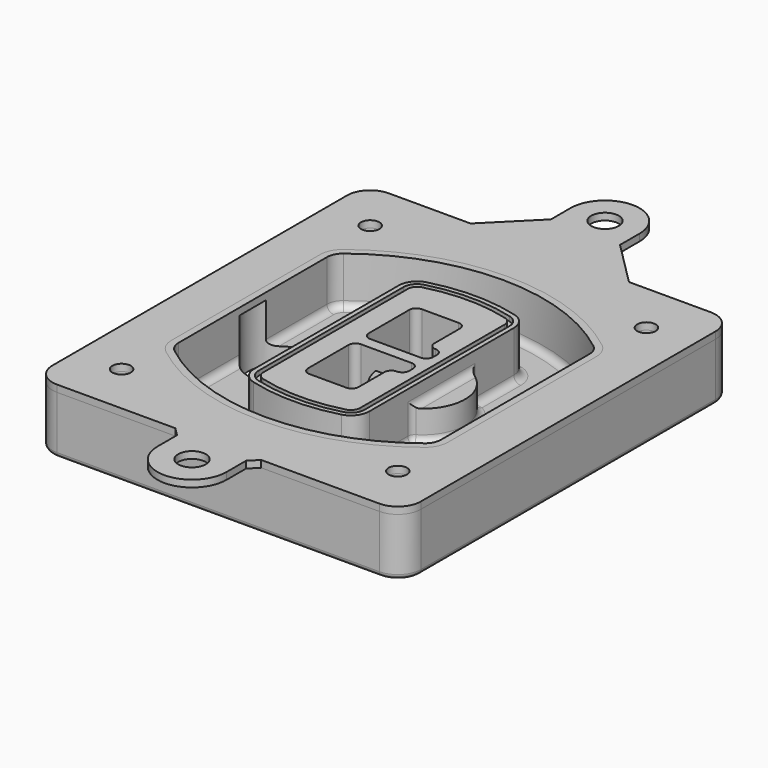
from build123d import *

# Parameters (mm, degrees)
F0_R      = 4
F1_DEPTH  = 25
F2_DEPTH  = 3
F3_DEPTH  = 18
F5_DEPTH  = 21
F6_DEPTH  = 2
F8_DEPTH  = 20
F9_DEPTH  = 16
F10_DEPTH = 25
F7_R      = 6
F7_R_2    = 4
F11_DEPTH = 6
F13_DEPTH = 9
F14_R     = 3
F15_R     = 2
F16_R     = 4
F16_R_2   = 6
F17_DEPTH = 3


with BuildPart() as f1:
    # F0 (on Top) → F1 (new body)
    with BuildSketch(Plane.XY):
        with BuildLine():
            ThreePointArc((-80, -80), (-77.0710678119, -87.0710678119), (-70, -90))
            Line((-70, -90), (70, -90))
            ThreePointArc((70, -90), (77.0710678119, -87.0710678119), (80, -80))
            Line((80, -80), (80, 80))
            ThreePointArc((80, 80), (77.0710678119, 87.0710678119), (70, 90))
            Line((70, 90), (-70, 90))
            ThreePointArc((-70, 90), (-77.0710678119, 87.0710678119), (-80, 80))
            Line((-80, 80), (-80, -80))
        make_face()
        with Locations((-60, -67.5)):
            Circle(F0_R, mode=Mode.SUBTRACT)
        with Locations((60, -67.5)):
            Circle(F0_R, mode=Mode.SUBTRACT)
        with Locations((-60, 67.5)):
            Circle(F0_R, mode=Mode.SUBTRACT)
        with BuildLine():
            ThreePointArc((-64, 40.2934422872), (-62.5820384798, 46.4328484224), (-58.6153846154, 51.3286200352))
            ThreePointArc((-58.6153846154, 51.3286200352), (0, 71.5), (58.6153846154, 51.3286200352))
            ThreePointArc((58.6153846154, 51.3286200352), (62.5820384798, 46.4328484224), (64, 40.2934422872))
            Line((64, 40.2934422872), (64, -40.2934422872))
            ThreePointArc((64, -40.2934422872), (62.5820384798, -46.4328484224), (58.6153846154, -51.3286200352))
            ThreePointArc((58.6153846154, -51.3286200352), (0, -71.5), (-58.6153846154, -51.3286200352))
            ThreePointArc((-58.6153846154, -51.3286200352), (-62.5820384798, -46.4328484224), (-64, -40.2934422872))
            Line((-64, -40.2934422872), (-64, 40.2934422872))
        make_face(mode=Mode.SUBTRACT)
        with Locations((60, 67.5)):
            Circle(F0_R, mode=Mode.SUBTRACT)
        with BuildLine():
            ThreePointArc((58.6153846154, 51.3286200352), (0, 71.5), (-58.6153846154, 51.3286200352))
            ThreePointArc((-58.6153846154, 51.3286200352), (-62.5820384798, 46.4328484224), (-64, 40.2934422872))
            Line((-64, 40.2934422872), (-64, -40.2934422872))
            ThreePointArc((-64, -40.2934422872), (-62.5820384798, -46.4328484224), (-58.6153846154, -51.3286200352))
            ThreePointArc((-58.6153846154, -51.3286200352), (0, -71.5), (58.6153846154, -51.3286200352))
            ThreePointArc((58.6153846154, -51.3286200352), (62.5820384798, -46.4328484224), (64, -40.2934422872))
            Line((64, -40.2934422872), (64, 40.2934422872))
            ThreePointArc((64, 40.2934422872), (62.5820384798, 46.4328484224), (58.6153846154, 51.3286200352))
        make_face()
        with BuildLine():
            Line((-60, -40.2934422872), (-60, 40.2934422872))
            ThreePointArc((-60, 40.2934422872), (-58.9871703427, 44.6787323838), (-56.1538461538, 48.1757121072))
            ThreePointArc((-56.1538461538, 48.1757121072), (0, 67.5), (56.1538461538, 48.1757121072))
            ThreePointArc((56.1538461538, 48.1757121072), (58.9871703427, 44.6787323838), (60, 40.2934422872))
            Line((60, 40.2934422872), (60, -40.2934422872))
            ThreePointArc((60, -40.2934422872), (58.9871703427, -44.6787323838), (56.1538461538, -48.1757121072))
            ThreePointArc((56.1538461538, -48.1757121072), (0, -67.5), (-56.1538461538, -48.1757121072))
            ThreePointArc((-56.1538461538, -48.1757121072), (-58.9871703427, -44.6787323838), (-60, -40.2934422872))
        make_face(mode=Mode.SUBTRACT)
        with BuildLine():
            ThreePointArc((-56.1538461538, 48.1757121072), (-58.9871703427, 44.6787323838), (-60, 40.2934422872))
            Line((-60, 40.2934422872), (-60, -40.2934422872))
            ThreePointArc((-60, -40.2934422872), (-58.9871703427, -44.6787323838), (-56.1538461538, -48.1757121072))
            ThreePointArc((-56.1538461538, -48.1757121072), (0, -67.5), (56.1538461538, -48.1757121072))
            ThreePointArc((56.1538461538, -48.1757121072), (58.9871703427, -44.6787323838), (60, -40.2934422872))
            Line((60, -40.2934422872), (60, 40.2934422872))
            ThreePointArc((60, 40.2934422872), (58.9871703427, 44.6787323838), (56.1538461538, 48.1757121072))
            ThreePointArc((56.1538461538, 48.1757121072), (0, 67.5), (-56.1538461538, 48.1757121072))
        make_face()
        with BuildLine():
            ThreePointArc((54.3076923077, 45.8110311612), (56.2910192399, 43.3631453548), (57, 40.2934422872))
            Line((57, 40.2934422872), (57, -40.2934422872))
            ThreePointArc((57, -40.2934422872), (56.2910192399, -43.3631453548), (54.3076923077, -45.8110311612))
            ThreePointArc((54.3076923077, -45.8110311612), (0, -64.5), (-54.3076923077, -45.8110311612))
            ThreePointArc((-54.3076923077, -45.8110311612), (-56.2910192399, -43.3631453548), (-57, -40.2934422872))
            Line((-57, -40.2934422872), (-57, 40.2934422872))
            ThreePointArc((-57, 40.2934422872), (-56.2910192399, 43.3631453548), (-54.3076923077, 45.8110311612))
            ThreePointArc((-54.3076923077, 45.8110311612), (0, 64.5), (54.3076923077, 45.8110311612))
        make_face(mode=Mode.SUBTRACT)
        with BuildLine():
            Line((57, -40.2934422872), (57, 40.2934422872))
            ThreePointArc((57, 40.2934422872), (56.2910192399, 43.3631453548), (54.3076923077, 45.8110311612))
            ThreePointArc((54.3076923077, 45.8110311612), (0, 64.5), (-54.3076923077, 45.8110311612))
            ThreePointArc((-54.3076923077, 45.8110311612), (-56.2910192399, 43.3631453548), (-57, 40.2934422872))
            Line((-57, 40.2934422872), (-57, -40.2934422872))
            ThreePointArc((-57, -40.2934422872), (-56.2910192399, -43.3631453548), (-54.3076923077, -45.8110311612))
            ThreePointArc((-54.3076923077, -45.8110311612), (0, -64.5), (54.3076923077, -45.8110311612))
            ThreePointArc((54.3076923077, -45.8110311612), (56.2910192399, -43.3631453548), (57, -40.2934422872))
        make_face()
    extrude(amount=-F1_DEPTH)

    # F0 (on Top) → F2 (join)
    with BuildSketch(Plane.XY):
        with BuildLine():
            ThreePointArc((-56.1538461538, 48.1757121072), (-58.9871703427, 44.6787323838), (-60, 40.2934422872))
            Line((-60, 40.2934422872), (-60, -40.2934422872))
            ThreePointArc((-60, -40.2934422872), (-58.9871703427, -44.6787323838), (-56.1538461538, -48.1757121072))
            ThreePointArc((-56.1538461538, -48.1757121072), (0, -67.5), (56.1538461538, -48.1757121072))
            ThreePointArc((56.1538461538, -48.1757121072), (58.9871703427, -44.6787323838), (60, -40.2934422872))
            Line((60, -40.2934422872), (60, 40.2934422872))
            ThreePointArc((60, 40.2934422872), (58.9871703427, 44.6787323838), (56.1538461538, 48.1757121072))
            ThreePointArc((56.1538461538, 48.1757121072), (0, 67.5), (-56.1538461538, 48.1757121072))
        make_face()
        with BuildLine():
            ThreePointArc((54.3076923077, 45.8110311612), (56.2910192399, 43.3631453548), (57, 40.2934422872))
            Line((57, 40.2934422872), (57, -40.2934422872))
            ThreePointArc((57, -40.2934422872), (56.2910192399, -43.3631453548), (54.3076923077, -45.8110311612))
            ThreePointArc((54.3076923077, -45.8110311612), (0, -64.5), (-54.3076923077, -45.8110311612))
            ThreePointArc((-54.3076923077, -45.8110311612), (-56.2910192399, -43.3631453548), (-57, -40.2934422872))
            Line((-57, -40.2934422872), (-57, 40.2934422872))
            ThreePointArc((-57, 40.2934422872), (-56.2910192399, 43.3631453548), (-54.3076923077, 45.8110311612))
            ThreePointArc((-54.3076923077, 45.8110311612), (0, 64.5), (54.3076923077, 45.8110311612))
        make_face(mode=Mode.SUBTRACT)
    extrude(amount=F2_DEPTH)

    # F0 (on Top) → F3 (cut)
    with BuildSketch(Plane.XY):
        with BuildLine():
            Line((57, -40.2934422872), (57, 40.2934422872))
            ThreePointArc((57, 40.2934422872), (56.2910192399, 43.3631453548), (54.3076923077, 45.8110311612))
            ThreePointArc((54.3076923077, 45.8110311612), (0, 64.5), (-54.3076923077, 45.8110311612))
            ThreePointArc((-54.3076923077, 45.8110311612), (-56.2910192399, 43.3631453548), (-57, 40.2934422872))
            Line((-57, 40.2934422872), (-57, -40.2934422872))
            ThreePointArc((-57, -40.2934422872), (-56.2910192399, -43.3631453548), (-54.3076923077, -45.8110311612))
            ThreePointArc((-54.3076923077, -45.8110311612), (0, -64.5), (54.3076923077, -45.8110311612))
            ThreePointArc((54.3076923077, -45.8110311612), (56.2910192399, -43.3631453548), (57, -40.2934422872))
        make_face()
    extrude(amount=-F3_DEPTH, mode=Mode.SUBTRACT)

    # F4 (on face) → F5 (join, through all)
    with BuildSketch(Plane.XY.offset(3)):
        with BuildLine():
            ThreePointArc((-25, -39.2465276821), (-23.3511545998, -44.1109737193), (-19.0842911877, -46.9702398883))
            ThreePointArc((-19.0842911877, -46.9702398883), (0, -49.5), (19.0842911877, -46.9702398883))
            ThreePointArc((19.0842911877, -46.9702398883), (23.3511545998, -44.1109737193), (25, -39.2465276821))
            Line((25, -39.2465276821), (25, 39.2465276821))
            ThreePointArc((25, 39.2465276821), (23.3511545998, 44.1109737193), (19.0842911877, 46.9702398883))
            ThreePointArc((19.0842911877, 46.9702398883), (0, 49.5), (-19.0842911877, 46.9702398883))
            ThreePointArc((-19.0842911877, 46.9702398883), (-23.3511545998, 44.1109737193), (-25, 39.2465276821))
            Line((-25, 39.2465276821), (-25, -39.2465276821))
        make_face()
        with BuildLine():
            ThreePointArc((18.5632183908, 45.0393118368), (21.7633659499, 42.89486221), (23, 39.2465276821))
            Line((23, 39.2465276821), (23, -39.2465276821))
            ThreePointArc((23, -39.2465276821), (21.7633659499, -42.89486221), (18.5632183908, -45.0393118368))
            ThreePointArc((18.5632183908, -45.0393118368), (0, -47.5), (-18.5632183908, -45.0393118368))
            ThreePointArc((-18.5632183908, -45.0393118368), (-21.7633659499, -42.89486221), (-23, -39.2465276821))
            Line((-23, -39.2465276821), (-23, 39.2465276821))
            ThreePointArc((-23, 39.2465276821), (-21.7633659499, 42.89486221), (-18.5632183908, 45.0393118368))
            ThreePointArc((-18.5632183908, 45.0393118368), (0, 47.5), (18.5632183908, 45.0393118368))
        make_face(mode=Mode.SUBTRACT)
        with BuildLine():
            Line((23, -39.2465276821), (23, 39.2465276821))
            ThreePointArc((23, 39.2465276821), (21.7633659499, 42.89486221), (18.5632183908, 45.0393118368))
            ThreePointArc((18.5632183908, 45.0393118368), (0, 47.5), (-18.5632183908, 45.0393118368))
            ThreePointArc((-18.5632183908, 45.0393118368), (-21.7633659499, 42.89486221), (-23, 39.2465276821))
            Line((-23, 39.2465276821), (-23, -39.2465276821))
            ThreePointArc((-23, -39.2465276821), (-21.7633659499, -42.89486221), (-18.5632183908, -45.0393118368))
            ThreePointArc((-18.5632183908, -45.0393118368), (0, -47.5), (18.5632183908, -45.0393118368))
            ThreePointArc((18.5632183908, -45.0393118368), (21.7633659499, -42.89486221), (23, -39.2465276821))
        make_face()
        with BuildLine():
            ThreePointArc((18.0421455939, 43.1083837852), (20.1755772999, 41.6787507007), (21, 39.2465276821))
            Line((21, 39.2465276821), (21, -39.2465276821))
            ThreePointArc((21, -39.2465276821), (20.1755772999, -41.6787507007), (18.0421455939, -43.1083837852))
            ThreePointArc((18.0421455939, -43.1083837852), (0, -45.5), (-18.0421455939, -43.1083837852))
            ThreePointArc((-18.0421455939, -43.1083837852), (-20.1755772999, -41.6787507007), (-21, -39.2465276821))
            Line((-21, -39.2465276821), (-21, 39.2465276821))
            ThreePointArc((-21, 39.2465276821), (-20.1755772999, 41.6787507007), (-18.0421455939, 43.1083837852))
            ThreePointArc((-18.0421455939, 43.1083837852), (0, 45.5), (18.0421455939, 43.1083837852))
        make_face(mode=Mode.SUBTRACT)
        with BuildLine():
            Line((21, -39.2465276821), (21, 39.2465276821))
            ThreePointArc((21, 39.2465276821), (20.1755772999, 41.6787507007), (18.0421455939, 43.1083837852))
            ThreePointArc((18.0421455939, 43.1083837852), (0, 45.5), (-18.0421455939, 43.1083837852))
            ThreePointArc((-18.0421455939, 43.1083837852), (-20.1755772999, 41.6787507007), (-21, 39.2465276821))
            Line((-21, 39.2465276821), (-21, -39.2465276821))
            ThreePointArc((-21, -39.2465276821), (-20.1755772999, -41.6787507007), (-18.0421455939, -43.1083837852))
            ThreePointArc((-18.0421455939, -43.1083837852), (0, -45.5), (18.0421455939, -43.1083837852))
            ThreePointArc((18.0421455939, -43.1083837852), (20.1755772999, -41.6787507007), (21, -39.2465276821))
        make_face()
        with BuildLine():
            Line((-8, -2.5), (14, -2.5))
            ThreePointArc((14, -2.5), (16.1213203436, -3.3786796564), (17, -5.5))
            Line((17, -5.5), (17, -7.5))
            ThreePointArc((17, -7.5), (16.1213203436, -9.6213203436), (14, -10.5))
            ThreePointArc((14, -10.5), (11.8786796564, -11.3786796564), (11, -13.5))
            Line((11, -13.5), (11, -27.5))
            ThreePointArc((11, -27.5), (10.1213203436, -29.6213203436), (8, -30.5))
            Line((8, -30.5), (-8, -30.5))
            ThreePointArc((-8, -30.5), (-10.1213203436, -29.6213203436), (-11, -27.5))
            Line((-11, -27.5), (-11, -5.5))
            ThreePointArc((-11, -5.5), (-10.1213203436, -3.3786796564), (-8, -2.5))
        make_face(mode=Mode.SUBTRACT)
        with BuildLine():
            ThreePointArc((-8, 2.5), (-10.1213203436, 3.3786796564), (-11, 5.5))
            Line((-11, 5.5), (-11, 27.5))
            ThreePointArc((-11, 27.5), (-10.1213203436, 29.6213203436), (-8, 30.5))
            Line((-8, 30.5), (8, 30.5))
            ThreePointArc((8, 30.5), (10.1213203436, 29.6213203436), (11, 27.5))
            Line((11, 27.5), (11, 13.5))
            ThreePointArc((11, 13.5), (11.8786796564, 11.3786796564), (14, 10.5))
            ThreePointArc((14, 10.5), (16.1213203436, 9.6213203436), (17, 7.5))
            Line((17, 7.5), (17, 5.5))
            ThreePointArc((17, 5.5), (16.1213203436, 3.3786796564), (14, 2.5))
            Line((14, 2.5), (-8, 2.5))
        make_face(mode=Mode.SUBTRACT)
    extrude(amount=-F5_DEPTH)

    # F4 (on face) → F6 (cut)
    with BuildSketch(Plane.XY.offset(3)):
        with BuildLine():
            Line((23, -39.2465276821), (23, 39.2465276821))
            ThreePointArc((23, 39.2465276821), (21.7633659499, 42.89486221), (18.5632183908, 45.0393118368))
            ThreePointArc((18.5632183908, 45.0393118368), (0, 47.5), (-18.5632183908, 45.0393118368))
            ThreePointArc((-18.5632183908, 45.0393118368), (-21.7633659499, 42.89486221), (-23, 39.2465276821))
            Line((-23, 39.2465276821), (-23, -39.2465276821))
            ThreePointArc((-23, -39.2465276821), (-21.7633659499, -42.89486221), (-18.5632183908, -45.0393118368))
            ThreePointArc((-18.5632183908, -45.0393118368), (0, -47.5), (18.5632183908, -45.0393118368))
            ThreePointArc((18.5632183908, -45.0393118368), (21.7633659499, -42.89486221), (23, -39.2465276821))
        make_face()
        with BuildLine():
            ThreePointArc((18.0421455939, 43.1083837852), (20.1755772999, 41.6787507007), (21, 39.2465276821))
            Line((21, 39.2465276821), (21, -39.2465276821))
            ThreePointArc((21, -39.2465276821), (20.1755772999, -41.6787507007), (18.0421455939, -43.1083837852))
            ThreePointArc((18.0421455939, -43.1083837852), (0, -45.5), (-18.0421455939, -43.1083837852))
            ThreePointArc((-18.0421455939, -43.1083837852), (-20.1755772999, -41.6787507007), (-21, -39.2465276821))
            Line((-21, -39.2465276821), (-21, 39.2465276821))
            ThreePointArc((-21, 39.2465276821), (-20.1755772999, 41.6787507007), (-18.0421455939, 43.1083837852))
            ThreePointArc((-18.0421455939, 43.1083837852), (0, 45.5), (18.0421455939, 43.1083837852))
        make_face(mode=Mode.SUBTRACT)
    extrude(amount=-F6_DEPTH, mode=Mode.SUBTRACT)

    # F7 (on face) → F8 (join)
    with BuildSketch(Plane(origin=(0, 0, -25), x_dir=(1, 0, 0), z_dir=(0, 0, -1))):
        with BuildLine():
            ThreePointArc((3.28842436, 0), (16.7567035675, 13.4682792075), (30.224982775, 0))
            Line((30.224982775, 0), (35.224982775, 0))
            ThreePointArc((35.224982775, 0), (16.7567035675, 18.4682792075), (-1.71157564, 0))
            Line((-1.71157564, 0), (3.28842436, 0))
        make_face()
        with BuildLine():
            Line((3.28842436, 0), (30.224982775, 0))
            ThreePointArc((30.224982775, 0), (16.7567035675, 13.4682792075), (3.28842436, 0))
        make_face()
        with BuildLine():
            ThreePointArc((3.28842436, 0), (16.7567035675, -13.4682792075), (30.224982775, 0))
            Line((30.224982775, 0), (3.28842436, 0))
        make_face()
        with BuildLine():
            Line((35.224982775, 0), (30.224982775, 0))
            ThreePointArc((30.224982775, 0), (16.7567035675, -13.4682792075), (3.28842436, 0))
            Line((3.28842436, 0), (-1.71157564, 0))
            ThreePointArc((-1.71157564, 0), (16.7567035675, -18.4682792075), (35.224982775, 0))
        make_face()
    extrude(amount=-F8_DEPTH)

    # F7 (on face) → F9 (cut)
    with BuildSketch(Plane(origin=(0, 0, -25), x_dir=(1, 0, 0), z_dir=(0, 0, -1))):
        with BuildLine():
            Line((3.28842436, 0), (30.224982775, 0))
            ThreePointArc((30.224982775, 0), (16.7567035675, 13.4682792075), (3.28842436, 0))
        make_face()
        with BuildLine():
            ThreePointArc((3.28842436, 0), (16.7567035675, -13.4682792075), (30.224982775, 0))
            Line((30.224982775, 0), (3.28842436, 0))
        make_face()
    extrude(amount=-F9_DEPTH, mode=Mode.SUBTRACT)

    # F7 (on face) → F10 (cut)
    with BuildSketch(Plane(origin=(0, 0, -25), x_dir=(1, 0, 0), z_dir=(0, 0, -1))):
        with BuildLine():
            Line((-59.0318229325, 0), (-32.0952645175, 0))
            ThreePointArc((-32.0952645175, 0), (-45.563543725, 13.4682792075), (-59.0318229325, 0))
        make_face()
        with BuildLine():
            ThreePointArc((-59.0318229325, 0), (-45.563543725, -13.4682792075), (-32.0952645175, 0))
            Line((-32.0952645175, 0), (-59.0318229325, 0))
        make_face()
    extrude(amount=-F10_DEPTH, mode=Mode.SUBTRACT)

    # F7 (on face) → F11 (cut)
    with BuildSketch(Plane(origin=(0, 0, -25), x_dir=(1, 0, 0), z_dir=(0, 0, -1))):
        with Locations((60, -67.5)):
            Circle(F7_R)
        with Locations((60, -67.5)):
            Circle(F7_R_2, mode=Mode.SUBTRACT)
        with Locations((60, -67.5)):
            Circle(F7_R)
        with Locations((60, -67.5)):
            Circle(F7_R_2, mode=Mode.SUBTRACT)
        with Locations((-60, -67.5)):
            Circle(F7_R)
        with Locations((-60, -67.5)):
            Circle(F7_R_2, mode=Mode.SUBTRACT)
        with Locations((-60, -67.5)):
            Circle(F7_R)
        with Locations((-60, -67.5)):
            Circle(F7_R_2, mode=Mode.SUBTRACT)
        with Locations((-60, 67.5)):
            Circle(F7_R)
        with Locations((-60, 67.5)):
            Circle(F7_R_2, mode=Mode.SUBTRACT)
        with Locations((-60, 67.5)):
            Circle(F7_R)
        with Locations((-60, 67.5)):
            Circle(F7_R_2, mode=Mode.SUBTRACT)
        with Locations((60, 67.5)):
            Circle(F7_R)
        with Locations((60, 67.5)):
            Circle(F7_R_2, mode=Mode.SUBTRACT)
        with Locations((60, 67.5)):
            Circle(F7_R)
        with Locations((60, 67.5)):
            Circle(F7_R_2, mode=Mode.SUBTRACT)
    extrude(amount=-F11_DEPTH, mode=Mode.SUBTRACT)

    # F12 (on face) → F13 (cut, through all)
    with BuildSketch(Plane(origin=(0, 0, -9), x_dir=(1, 0, 0), z_dir=(0, 0, -1))):
        with BuildLine():
            Line((11, 13.5), (11, 17.5481537753))
            ThreePointArc((11, 17.5481537753), (2.5696536419, 11.8239143813), (-1.5415842455, 2.5))
            Line((-1.5415842455, 2.5), (3.5224848595, 2.5))
            ThreePointArc((3.5224848595, 2.5), (6.1857188154, 8.3455872281), (11.2536447004, 12.2927168648))
            ThreePointArc((11.2536447004, 12.2927168648), (11.0640958889, 12.8831798879), (11, 13.5))
        make_face()
        with BuildLine():
            ThreePointArc((11.2536447004, -12.2927168648), (6.1857188154, -8.3455872281), (3.5224848595, -2.5))
            Line((3.5224848595, -2.5), (-1.5415842455, -2.5))
            ThreePointArc((-1.5415842455, -2.5), (2.5696536419, -11.8239143813), (11, -17.5481537753))
            Line((11, -17.5481537753), (11, -13.5))
            ThreePointArc((11, -13.5), (11.0640958889, -12.8831798879), (11.2536447004, -12.2927168648))
        make_face()
        with BuildLine():
            ThreePointArc((11.2536447004, 12.2927168648), (6.1857188154, 8.3455872281), (3.5224848595, 2.5))
            Line((3.5224848595, 2.5), (14, 2.5))
            ThreePointArc((14, 2.5), (16.1213203436, 3.3786796564), (17, 5.5))
            Line((17, 5.5), (17, 7.5))
            ThreePointArc((17, 7.5), (16.1213203436, 9.6213203436), (14, 10.5))
            ThreePointArc((14, 10.5), (12.3601599782, 10.9878446101), (11.2536447004, 12.2927168648))
        make_face()
        with BuildLine():
            Line((14, -2.5), (3.5224848595, -2.5))
            ThreePointArc((3.5224848595, -2.5), (6.1857188154, -8.3455872281), (11.2536447004, -12.2927168648))
            ThreePointArc((11.2536447004, -12.2927168648), (12.3601599782, -10.9878446101), (14, -10.5))
            ThreePointArc((14, -10.5), (16.1213203436, -9.6213203436), (17, -7.5))
            Line((17, -7.5), (17, -5.5))
            ThreePointArc((17, -5.5), (16.1213203436, -3.3786796564), (14, -2.5))
        make_face()
    extrude(amount=F13_DEPTH, mode=Mode.SUBTRACT)

    # F14
    f14_edges = [f1.edges().sort_by_distance(p)[0] for p in [
        (-57, -23.703476, -18),
        (-57, 23.703476, -18),
        (25, 0, -5),
        (25, 16.526506, -11.5),
        (25, -16.526506, -11.5),
        (25, -27.886517, -18),
        (35.224983, 0, -18),
    ]]
    fillet(f14_edges, radius=F14_R)

    # F15
    f15_edges = [f1.edges().sort_by_distance(p)[0] for p in [
        (0, -90, -25),
    ]]
    fillet(f15_edges, radius=F15_R)


with BuildPart() as f17:
    # F16 (on face) → F17 (new body)
    with BuildSketch(Plane.XY):
        with BuildLine():
            Line((-34.4050973654, 90), (-70, 90))
            ThreePointArc((-70, 90), (-77.0710678119, 87.0710678119), (-80, 80))
            Line((-80, 80), (-80, -80))
            ThreePointArc((-80, -80), (-77.0710678119, -87.0710678119), (-70, -90))
            Line((-70, -90), (-18.6550973654, -90))
            Line((-18.6550973654, -90), (18.6550973654, -90))
            Line((18.6550973654, -90), (70, -90))
            ThreePointArc((70, -90), (77.0710678119, -87.0710678119), (80, -80))
            Line((80, -80), (80, 80))
            ThreePointArc((80, 80), (77.0710678119, 87.0710678119), (70, 90))
            Line((70, 90), (34.4050973654, 90))
            Line((34.4050973654, 90), (-34.4050973654, 90))
        make_face()
        with Locations((-60, -67.5)):
            Circle(F16_R, mode=Mode.SUBTRACT)
        with Locations((60, -67.5)):
            Circle(F16_R, mode=Mode.SUBTRACT)
        with BuildLine():
            ThreePointArc((-56.1538461538, 48.1757121072), (0, 67.5), (56.1538461538, 48.1757121072))
            ThreePointArc((56.1538461538, 48.1757121072), (58.9871703427, 44.6787323838), (60, 40.2934422872))
            Line((60, 40.2934422872), (60, -40.2934422872))
            ThreePointArc((60, -40.2934422872), (58.9871703427, -44.6787323838), (56.1538461538, -48.1757121072))
            ThreePointArc((56.1538461538, -48.1757121072), (0, -67.5), (-56.1538461538, -48.1757121072))
            ThreePointArc((-56.1538461538, -48.1757121072), (-58.9871703427, -44.6787323838), (-60, -40.2934422872))
            Line((-60, -40.2934422872), (-60, 40.2934422872))
            ThreePointArc((-60, 40.2934422872), (-58.9871703427, 44.6787323838), (-56.1538461538, 48.1757121072))
        make_face(mode=Mode.SUBTRACT)
        with Locations((-60, 67.5)):
            Circle(F16_R, mode=Mode.SUBTRACT)
        with Locations((60, 67.5)):
            Circle(F16_R, mode=Mode.SUBTRACT)
        with BuildLine():
            Line((-15, 109.4050973654), (-34.4050973654, 90))
            Line((-34.4050973654, 90), (34.4050973654, 90))
            Line((34.4050973654, 90), (15, 109.4050973654))
            Line((15, 109.4050973654), (15, 120))
            ThreePointArc((15, 120), (0, 135), (-15, 120))
            Line((-15, 120), (-15, 109.4050973654))
        make_face()
        with Locations((0, 120)):
            Circle(F16_R_2, mode=Mode.SUBTRACT)
        with BuildLine():
            Line((18.6550973654, -90), (-18.6550973654, -90))
            Line((-18.6550973654, -90), (-15, -93.6550973654))
            Line((-15, -93.6550973654), (-15, -104.25))
            ThreePointArc((-15, -104.25), (0, -119.25), (15, -104.25))
            Line((15, -104.25), (15, -93.6550973654))
            Line((15, -93.6550973654), (18.6550973654, -90))
        make_face()
        with Locations((0, -104.25)):
            Circle(F16_R_2, mode=Mode.SUBTRACT)
    extrude(amount=F17_DEPTH)


solid = Compound([f1.part, f17.part])
